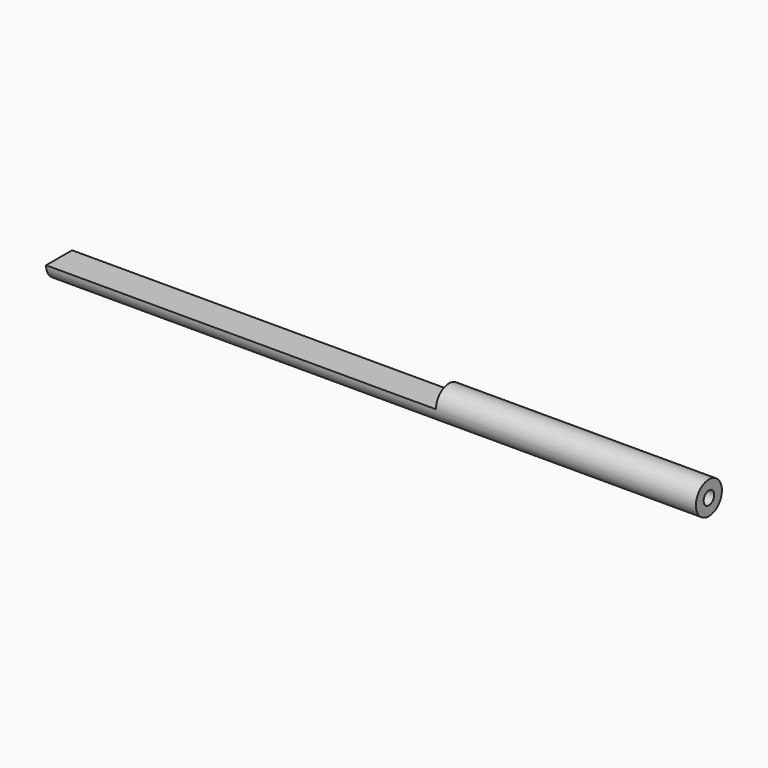
from build123d import *

# Parameters (mm, degrees)
F0_R     = 3.175
F1_DEPTH = 127
F3_D     = 2.5781
F3_DEPTH = 12.7
F3_TIP   = 0.774539381
F5_DEPTH = 76.2


with BuildPart() as f1:
    # F0 (on Right) → F1 (new body)
    with BuildSketch(Plane.YZ):
        Circle(F0_R)
    extrude(amount=F1_DEPTH)

    # F3
    with Locations(Plane.YZ.offset(127)):
        with Locations((0, 0)):
            Hole(F3_D / 2, depth=F3_DEPTH)
            with Locations((0, 0, -(F3_DEPTH + F3_TIP / 2))):  # 118° drill point
                Cone(0, F3_D / 2, F3_TIP, mode=Mode.SUBTRACT)

    # F4 (on face) → F5 (cut)
    with BuildSketch(Plane(origin=(0, 0, 0), x_dir=(0, -1, 0), z_dir=(-1, 0, 0))):
        with BuildLine():
            ThreePointArc((-0.8255, 0), (0, 0.8255), (0.8255, 0))
            Line((0.8255, 0), (3.175, 0))
            ThreePointArc((3.175, 0), (0, 3.175), (-3.175, 0))
            Line((-3.175, 0), (-0.8255, 0))
        make_face()
        with BuildLine():
            Line((-0.8255, 0), (0.8255, 0))
            ThreePointArc((0.8255, 0), (0, 0.8255), (-0.8255, 0))
        make_face()
    extrude(amount=-F5_DEPTH, mode=Mode.SUBTRACT)


solid = f1.part
